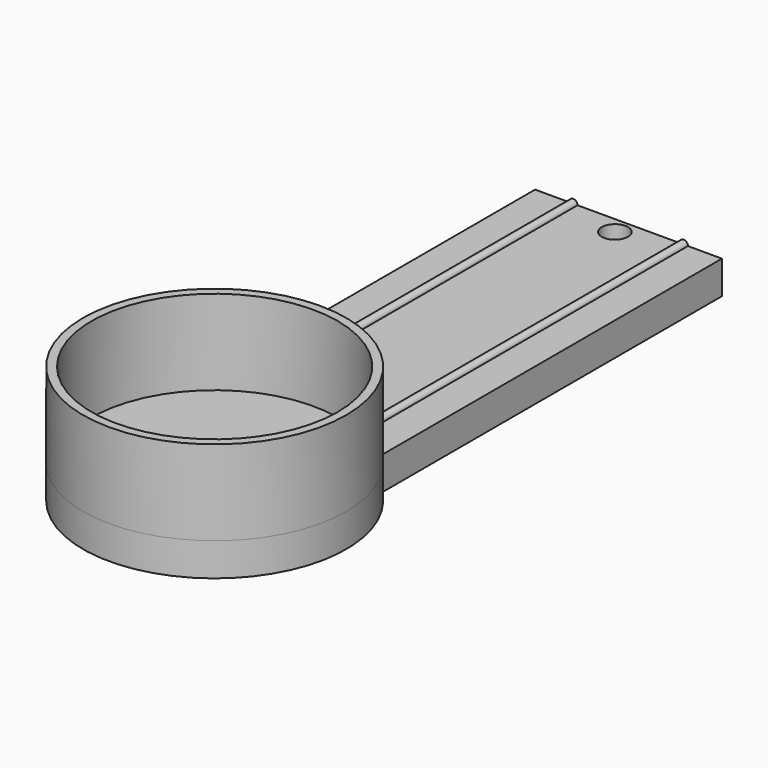
from build123d import *

# Parameters (mm, degrees)
SKETCH_R      = 1.55
PAD_DEPTH     = 3.9
PAD002_DEPTH  = 47
SKETCH001_R   = 15.5
SKETCH001_R_2 = 14.5
PAD003_DEPTH  = 10


with BuildPart() as part:
    # Sketch → Pad (new body)
    with BuildSketch(Plane.XY):
        with BuildLine():
            Line((-11, 3), (11, 3))
            Line((11, 3), (11, -47))
            ThreePointArc((-11, -47), (0, -73.420165), (11, -47))
            Line((-11, 3), (-11, -47))
        make_face()
        with Locations((0, 1)):
            Circle(SKETCH_R, mode=Mode.SUBTRACT)
    extrude(amount=PAD_DEPTH)

    # Sketch003 (on Face1 of Pad) → Pad002 (join)
    with BuildSketch(Plane(origin=(0, 3, 0), x_dir=(-1, 0, 0), z_dir=(0, 1, 0))):
        with BuildLine():
            ThreePointArc((-6, 3.9), (-6.5, 4.4), (-7, 3.9))
            Line((-7, 3.9), (-6, 3.9))
        make_face()
        with BuildLine():
            ThreePointArc((7, 3.9), (6.5, 4.4), (6, 3.9))
            Line((6, 3.9), (7, 3.9))
        make_face()
    extrude(amount=-PAD002_DEPTH)

    # Sketch001 (on Face5 of Pad002) → Pad003 (join)
    with BuildSketch(Plane.XY.offset(3.9)):
        with Locations((0, -57.920165)):
            Circle(SKETCH001_R)
        with Locations((0, -57.920165)):
            Circle(SKETCH001_R_2, mode=Mode.SUBTRACT)
    extrude(amount=PAD003_DEPTH)


solid = part.part
